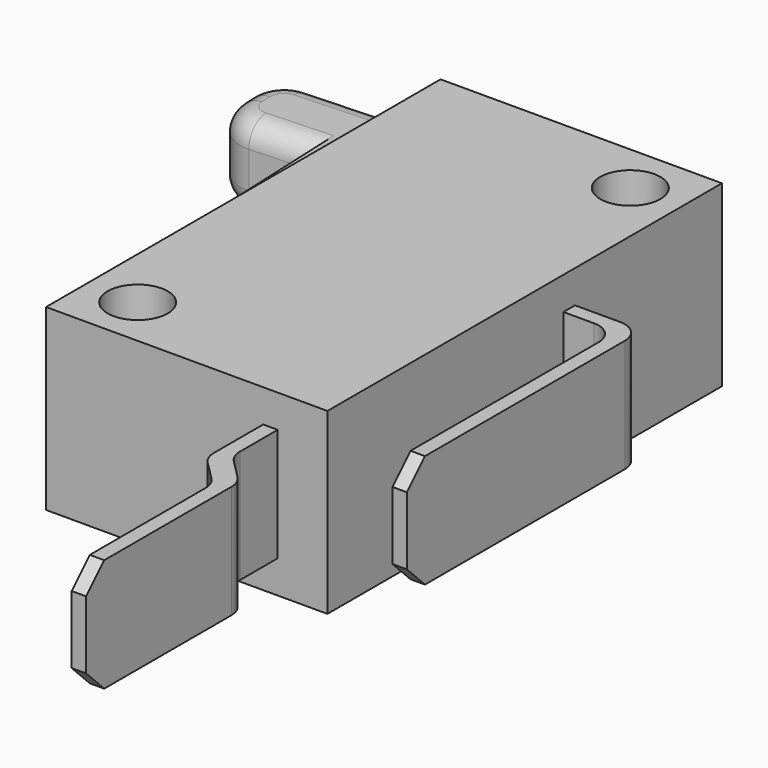
from build123d import *

# Parameters (mm, degrees)
F0_W      = 15.7988
F0_H      = 27.686
F1_DEPTH  = 10.033
F2_R      = 1.6891
F3_DEPTH  = 10.033
F4_W      = 0.8128
F4_H      = 3.175
F5_DEPTH  = 3.81
F6_W      = 0.8128
F6_H      = 6.35
F7_DEPTH  = 15.748
F8_R      = 1.27
F9_SIZE   = 1.27
F10_W     = 0.8128
F10_H     = 3.175
F11_DEPTH = 3.175
F13_DEPTH = 6.35
F14_W     = 1.1494727835
F14_H     = 6.35
F15_DEPTH = 2.54
F17_DEPTH = 6.35
F18_W     = 0.8128
F18_H     = 6.35
F19_DEPTH = 9.906
F20_R     = 1.27
F21_SIZE  = 1.27
F22_W     = 0.8128
F22_H     = 2.2987
F23_DEPTH = 1.27
F25_DEPTH = 4.5974
F26_W     = 1.9280109734
F26_H     = 4.5974
F27_DEPTH = 12.7
F28_W     = 4.6482
F28_H     = 4.5974
F29_DEPTH = 5.715
F30_R     = 2.032
F31_R     = 1.27


with BuildPart() as f1:
    # F0 (on Top) → F1 (new body)
    with BuildSketch(Plane.XY):
        Rectangle(F0_W, F0_H)
    extrude(amount=F1_DEPTH)

    # F2 (on face) → F3 (cut, through all)
    with BuildSketch(Plane.XY.offset(10.033)):
        with Locations((5.0419, 10.9855)):
            Circle(F2_R)
        with Locations((-5.0419, -10.9855)):
            Circle(F2_R)
    extrude(amount=-F3_DEPTH, mode=Mode.SUBTRACT)

    # F4 (on face) → F5 (join)
    with BuildSketch(Plane.YZ.offset(7.8994)):
        with Locations((3.1242, 6.604)):
            Rectangle(F4_W, F4_H)
        with Locations((3.1242, 3.429)):
            Rectangle(F4_W, F4_H)
    extrude(amount=F5_DEPTH)

    # F6 (on face) → F7 (join)
    with BuildSketch(Plane.XZ.offset(-2.7178)):
        with Locations((11.303, 5.0165)):
            Rectangle(F6_W, F6_H)
    extrude(amount=F7_DEPTH)

    # F8
    f8_edges = [f1.edges().sort_by_distance(p)[0] for p in [
        (11.7094, 3.5306, 5.0165),
        (10.8966, 2.7178, 5.0165),
    ]]
    fillet(f8_edges, radius=F8_R)

    # F9
    f9_edges = [f1.edges().sort_by_distance(p)[0] for p in [
        (11.303, -13.0302, 8.1915),
        (11.303, -13.0302, 1.8415),
    ]]
    chamfer(f9_edges, length=F9_SIZE)

    # F10 (on face) → F11 (join)
    with BuildSketch(Plane.XZ.offset(13.843)):
        with Locations((4.699, 6.604)):
            Rectangle(F10_W, F10_H)
        with Locations((4.699, 3.429)):
            Rectangle(F10_W, F10_H)
    extrude(amount=F11_DEPTH)

    # F12 (on face) → F13 (join, through all)
    with BuildSketch(Plane.XY.offset(8.1915)):
        Polygon((4.2926, -17.8308), (5.1054, -17.018), (4.2926, -17.018), align=None)
    extrude(amount=-F13_DEPTH)

    # F14 (on face) → F15 (join)
    with BuildSketch(Plane(origin=(11.0617, -11.0617, 0), x_dir=(0.7071067812, 0.7071067812, 0), z_dir=(0.7071067812, -0.7071067812, 0))):
        with Locations((-8.9982166333, 5.0165)):
            Rectangle(F14_W, F14_H)
    extrude(amount=F15_DEPTH)

    # F16 (on face) → F17 (join, through all)
    with BuildSketch(Plane.XY.offset(8.1915)):
        Polygon((6.9014512242, -19.6268512242), (6.9014512242, -18.8140512242), (6.0886512242, -19.6268512242), align=None)
    extrude(amount=-F17_DEPTH)

    # F18 (on face) → F19 (join)
    with BuildSketch(Plane.XZ.offset(19.6268512242)):
        with Locations((6.4950512242, 5.0165)):
            Rectangle(F18_W, F18_H)
    extrude(amount=F19_DEPTH)

    # F20
    f20_edges = [f1.edges().sort_by_distance(p)[0] for p in [
        (4.2926, -17.8308, 5.0165),
        (5.1054, -17.018, 5.0165),
        (6.901451, -18.814051, 5.0165),
        (6.088651, -19.626851, 5.0165),
    ]]
    fillet(f20_edges, radius=F20_R)

    # F21
    f21_edges = [f1.edges().sort_by_distance(p)[0] for p in [
        (6.495051, -29.532851, 1.8415),
        (6.495051, -29.532851, 8.1915),
    ]]
    chamfer(f21_edges, length=F21_SIZE)

    # F22 (on face) → F23 (join)
    with BuildSketch(Plane(origin=(-7.8994, 0, 0), x_dir=(0, -1, 0), z_dir=(-1, 0, 0))):
        with Locations((-1.905, 3.86715)):
            Rectangle(F22_W, F22_H)
        with Locations((-1.905, 6.16585)):
            Rectangle(F22_W, F22_H)
    extrude(amount=F23_DEPTH)

    # F24 (on face) → F25 (join, through all)
    with BuildSketch(Plane.XY.offset(7.3152)):
        Polygon((-9.1694, 1.4986), (-9.1694, 1.5813095502), (-11.0637601465, 1.4986), align=None)
    extrude(amount=-F25_DEPTH)

    # F26 (on face) → F27 (join)
    with BuildSketch(Plane(origin=(-0.0863562718, 1.9778838039, 0), x_dir=(-0.9990482216, -0.0436193874, 0), z_dir=(-0.0436193874, 0.9990482216, 0))):
        with Locations((10.0238563977, 5.0165)):
            Rectangle(F26_W, F26_H)
    extrude(amount=F27_DEPTH)

    # F28 (on face) → F29 (join)
    with BuildSketch(Plane(origin=(-10.9774038747, -0.4792838039, 0), x_dir=(0.0436193874, -0.9990482216, 0), z_dir=(-0.9990482216, -0.0436193874, 0))):
        with Locations((-12.3556681044, 5.0165)):
            Rectangle(F28_W, F28_H)
    extrude(amount=F29_DEPTH)

    # F30
    f30_edges = [f1.edges().sort_by_distance(p)[0] for p in [
        (-17.124535, 9.293452, 5.0165),
        (-17.327287, 13.937228, 5.0165),
    ]]
    fillet(f30_edges, radius=F30_R)

    # F31
    f31_edges = [f1.edges().sort_by_distance(p)[0] for p in [
        (-16.706734, 13.368596, 7.3152),
        (-16.555903, 9.914005, 7.3152),
        (-17.225911, 11.61534, 7.3152),
        (-17.225911, 11.61534, 2.7178),
        (-16.555903, 9.914005, 2.7178),
        (-16.706734, 13.368596, 2.7178),
    ]]
    fillet(f31_edges, radius=F31_R)


solid = f1.part
